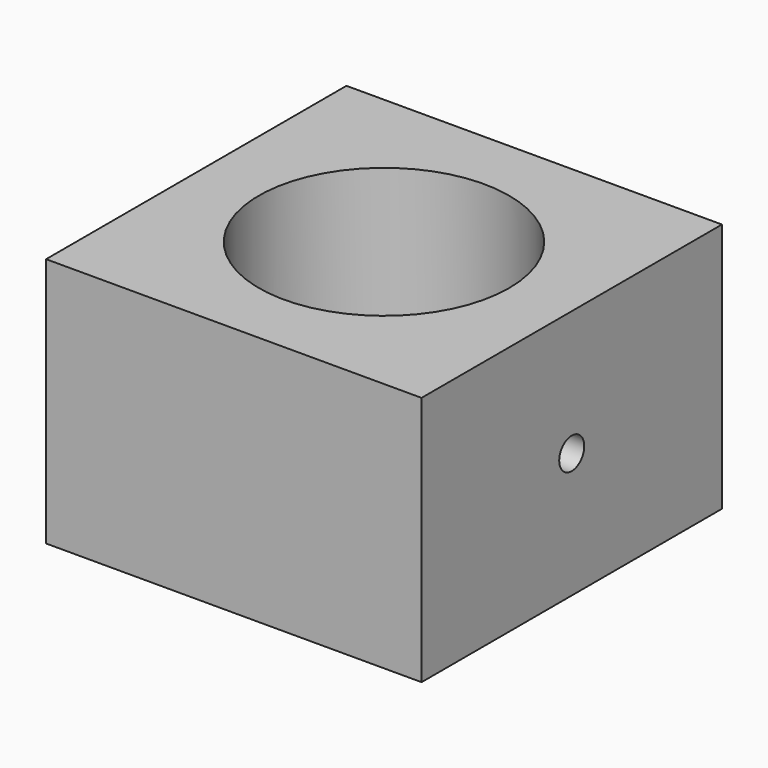
from build123d import *

# Parameters (mm, degrees)
F0_W     = 38.1
F0_H     = 38.1
F1_DEPTH = 25.4
F2_R     = 1.5875
F3_DEPTH = 38.1
F4_R     = 12.7
F5_DEPTH = 25.4


with BuildPart() as f1:
    # F0 (on Top) → F1 (new body)
    with BuildSketch(Plane.XY):
        with Locations((19.05, 19.05)):
            Rectangle(F0_W, F0_H)
    extrude(amount=F1_DEPTH)

    # F2 (on face) → F3 (cut)
    with BuildSketch(Plane.YZ.offset(38.1)):
        with Locations((19.05, 12.7)):
            Circle(F2_R)
    extrude(amount=-F3_DEPTH, mode=Mode.SUBTRACT)

    # F4 (on face) → F5 (cut)
    with BuildSketch(Plane.XY.offset(25.4)):
        with Locations((19.05, 19.05)):
            Circle(F4_R)
    extrude(amount=-F5_DEPTH, mode=Mode.SUBTRACT)


solid = f1.part
